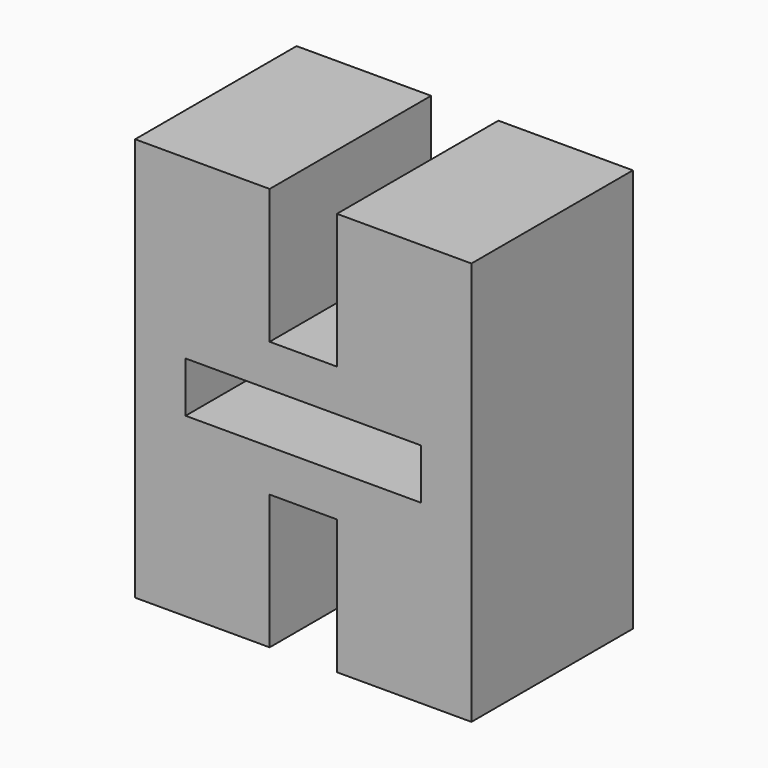
from build123d import *

# Parameters (mm, degrees)
F1_DEPTH = 60
F2_W     = 70
F2_H     = 15
F3_DEPTH = 50
F4_R     = 15
F5_R     = 15
F6_DEPTH = 67.5


with BuildPart() as f1:
    # F0 (on Front) → F1 (new body)
    with BuildSketch(Plane.XZ):
        Polygon((-8.039089, 59.247605), (-48.039089, 59.247605), (-48.039089, -60.752395), (-8.039089, -60.752395), (-8.039089, -20.752395), (11.960911, -20.752395), (11.960911, -60.752395), (51.960911, -60.752395), (51.960911, 59.247605), (11.960911, 59.247605), (11.960911, 19.247605), (-8.039089, 19.247605), align=None)
    extrude(amount=F1_DEPTH)

    # F2 (on face) → F3 (cut)
    with BuildSketch(Plane.XZ.offset(60)):
        with Locations((1.960911, -0.752395)):
            Rectangle(F2_W, F2_H)
    extrude(amount=-F3_DEPTH, mode=Mode.SUBTRACT)

    # F4 (on face) + F5 (on face) → F6 (cut)
    with BuildSketch(Plane(origin=(0, 0, -60.752395), x_dir=(1, 0, 0), z_dir=(0, 0, -1))):
        with Locations((-28.039089, 20)):
            Circle(F4_R)
    with BuildSketch(Plane(origin=(0, 0, -60.752395), x_dir=(1, 0, 0), z_dir=(0, 0, -1))):
        with Locations((31.960911, 20)):
            Circle(F5_R)
    extrude(amount=-F6_DEPTH, mode=Mode.SUBTRACT)


solid = f1.part
